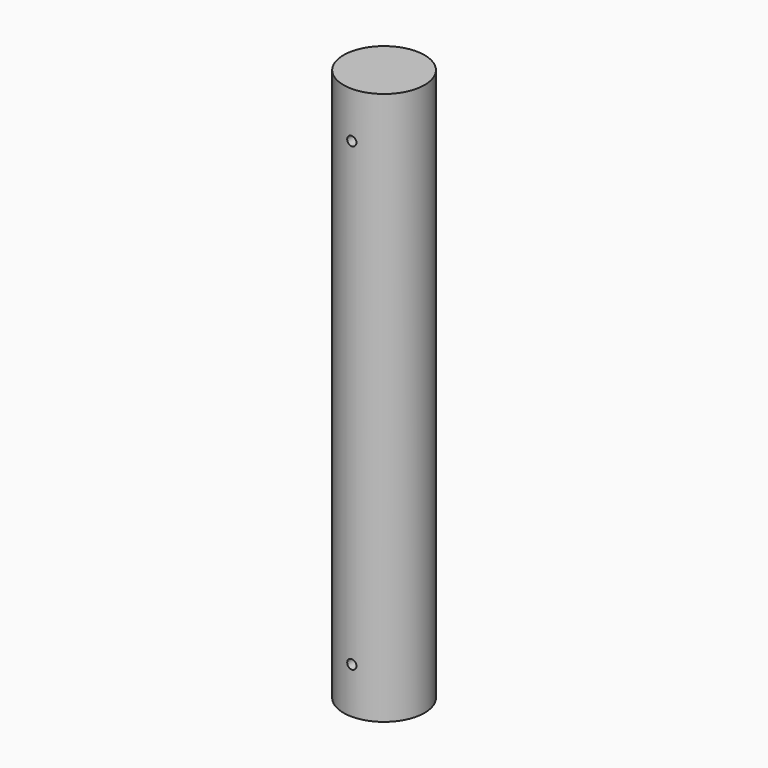
from build123d import *

# Parameters (mm, degrees)
F0_R     = 44
F1_DEPTH = 300
F2_R     = 5
F3_DEPTH = 150


with BuildPart() as f1:
    # F0 (on Top) → F1 (new body, symmetric)
    with BuildSketch(Plane.XY):
        Circle(F0_R)
    extrude(amount=F1_DEPTH, both=True)

    # F2 (on Front) → F3 (cut, symmetric)
    with BuildSketch(Plane.XZ):
        with Locations((0, -250)):
            Circle(F2_R)
        with Locations((0, 250)):
            Circle(F2_R)
    extrude(amount=F3_DEPTH, both=True, mode=Mode.SUBTRACT)


solid = f1.part
